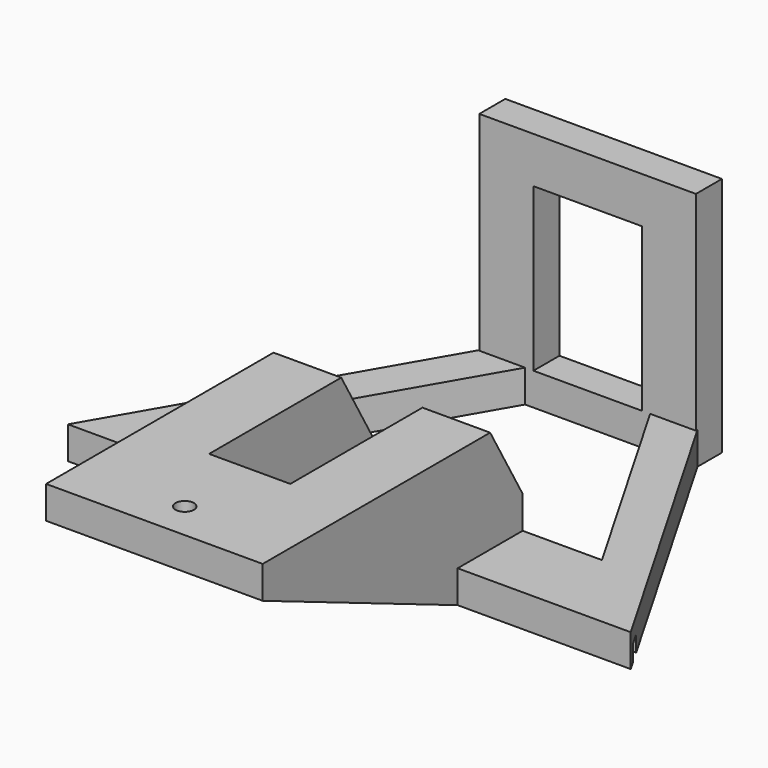
from build123d import *

# Parameters (mm, degrees)
BOX031_W                 = 46
BOX031_H                 = 15
BOX031_DEPTH             = 16
BOX029_W                 = 78
BOX029_H                 = 15
BOX029_DEPTH             = 6
BOX023_W                 = 220
BOX023_H                 = 2.5
BOX023_DEPTH             = 3
EXTRUDE011_DEPTH         = 10
BOX024_W                 = 220
BOX024_H                 = 113
BOX024_DEPTH             = 8
BOX026_W                 = 32
BOX026_H                 = 6
BOX026_DEPTH             = 6
PRISM004_DEPTH           = 6
PRISM004_PLACEMENT_ANGLE = 30
PRISM005_DEPTH           = 6
PRISM005_PLACEMENT_ANGLE = 30
EXTRUDE012_DEPTH         = 12.5
EXTRUDE009_DEPTH         = 12.5
EXTRUDE008_DEPTH         = 12.5
BOX009_W                 = 12.5
BOX009_H                 = 7.5
BOX009_DEPTH             = 22
BOX010_W                 = 12.5
BOX010_H                 = 7.5
BOX010_DEPTH             = 22
CYLINDER_R               = 1.7
CYLINDER_DEPTH           = 30
BOX007_W                 = 15
BOX007_H                 = 70
BOX007_DEPTH             = 6
BOX006_W                 = 40
BOX006_H                 = 51
BOX006_DEPTH             = 6
EXTRUDE010_DEPTH         = 12.5
BOX021_W                 = 12.5
BOX021_H                 = 7.5
BOX021_DEPTH             = 22
BOX027_W                 = 12.5
BOX027_H                 = 7.5
BOX027_DEPTH             = 22
CYLINDER002_R            = 1.7
CYLINDER002_DEPTH        = 30
BOX025_W                 = 15
BOX025_H                 = 70
BOX025_DEPTH             = 6
BOX022_W                 = 40
BOX022_H                 = 51
BOX022_DEPTH             = 6
BOX005_W                 = 20
BOX005_H                 = 6
BOX005_DEPTH             = 30
BOX004_W                 = 40
BOX004_H                 = 6
BOX004_DEPTH             = 44.5


with BuildPart() as cube030:
    # Box031 → Box031 (new body)
    with BuildSketch(Plane(origin=(-22, 15, 0), x_dir=(1, 0, 0), z_dir=(0, 0, 1))):
        with Locations((23, 7.5)):
            Rectangle(BOX031_W, BOX031_H)
    extrude(amount=BOX031_DEPTH)


with BuildPart() as cube028:
    # Box029 → Box029 (new body)
    with BuildSketch(Plane(origin=(-39, 0, 0), x_dir=(1, 0, 0), z_dir=(0, 0, 1))):
        with Locations((39, 7.5)):
            Rectangle(BOX029_W, BOX029_H)
    extrude(amount=BOX029_DEPTH)


with BuildPart() as cube022:
    # Box023 → Box023 (new body)
    with BuildSketch(Plane(origin=(-110, 2, 0), x_dir=(1, 0, 0), z_dir=(0, 0, 1))):
        with Locations((110, 1.25)):
            Rectangle(BOX023_W, BOX023_H)
    extrude(amount=BOX023_DEPTH)


with BuildPart() as extrude011:
    # Sketch009 → Extrude011 (new body)
    with BuildSketch(Plane.XY):
        Polygon((-95, 0), (95, 0), (85, 61), (-85, 61), align=None)
    extrude(amount=EXTRUDE011_DEPTH)


with BuildPart() as obj1:
    # Box024 → Box024 (new body)
    with BuildSketch(Plane(origin=(-110, -15, 0), x_dir=(1, 0, 0), z_dir=(0, 0, 1))):
        with Locations((110, 56.5)):
            Rectangle(BOX024_W, BOX024_H)
    extrude(amount=BOX024_DEPTH)

    # Cut004020: cut Extrude011
    add(extrude011.part, mode=Mode.SUBTRACT)


with BuildPart() as cube025:
    # Box026 → Box026 (new body)
    with BuildSketch(Plane(origin=(-16, 55, 0), x_dir=(1, 0, 0), z_dir=(0, 0, 1))):
        with Locations((16, 3)):
            Rectangle(BOX026_W, BOX026_H)
    extrude(amount=BOX026_DEPTH)


with BuildPart() as prism004:
    # Prism004 → Prism004 (new body)
    with BuildSketch(Plane.XY):
        Polygon((45, 0), (-22.5, 38.971143), (-22.5, -38.971143), align=None)
    extrude(amount=PRISM004_DEPTH)


with BuildPart() as prism004_1:
    # Prism004 placement: moved
    add(prism004.part.moved(Location((0, 23, 0))).rotate(Axis((0, 23, 0), (0, 0, -1)), PRISM004_PLACEMENT_ANGLE))


with BuildPart() as obj2:
    # Prism005 → Prism005 (new body)
    with BuildSketch(Plane.XY):
        Polygon((60, 0), (-30, 51.961524), (-30, -51.961524), align=None)
    extrude(amount=PRISM005_DEPTH)


with BuildPart() as obj2_1:
    # Prism005 placement: moved
    add(obj2.part.moved(Location((0, 23, 0))).rotate(Axis((0, 23, 0), (0, 0, -1)), PRISM005_PLACEMENT_ANGLE))

    # Cut004019: cut Prism004
    add(prism004_1.part, mode=Mode.SUBTRACT)


with BuildPart() as obj2_2:
    # Cut004019 placement: moved
    add(obj2_1.part.moved(Location((0, 7, 0))))

    # Fusion004005: union Cube025
    add(cube025.part)

    # Cut004015: cut obj1
    add(obj1.part, mode=Mode.SUBTRACT)

    # Cut004016: cut Cube022
    add(cube022.part, mode=Mode.SUBTRACT)


with BuildPart() as extrude012:
    # Sketch010 (on Face21 of Fusion004006) → Extrude012 (new body)
    with BuildSketch(Plane(origin=(-20, 0, 0), x_dir=(0, -1, 0), z_dir=(-1, 0, 0))):
        Polygon((-7.5, 0), (-7.5, 25), (-21.933757, 0), align=None)
    extrude(amount=-EXTRUDE012_DEPTH)


with BuildPart() as extrude012_1:
    # Extrude012 placement: moved
    add(extrude012.part.moved(Location((27.5, 0, 0))))


with BuildPart() as extrude009:
    # Sketch007 (on Face17 of Fusion004002) → Extrude009 (new body)
    with BuildSketch(Plane(origin=(-20, 0, 0), x_dir=(0, -1, 0), z_dir=(-1, 0, 0))):
        Polygon((0, 0), (0, 19), (45, 19), align=None)
    extrude(amount=EXTRUDE009_DEPTH)


with BuildPart() as extrude009_1:
    # Extrude009 placement: moved
    add(extrude009.part.moved(Location((40, 0, 0))))


with BuildPart() as extrude008:
    # Sketch007 (on Face17 of Fusion004002) → Extrude008 (new body)
    with BuildSketch(Plane(origin=(-20, 0, 0), x_dir=(0, -1, 0), z_dir=(-1, 0, 0))):
        Polygon((0, 0), (0, 19), (45, 19), align=None)
    extrude(amount=-EXTRUDE008_DEPTH)


with BuildPart() as cube008:
    # Box009 → Box009 (new body)
    with BuildSketch(Plane(origin=(7.5, 0, 3), x_dir=(1, 0, 0), z_dir=(0, 0, 1))):
        with Locations((6.25, 3.75)):
            Rectangle(BOX009_W, BOX009_H)
    extrude(amount=BOX009_DEPTH)


with BuildPart() as cube009:
    # Box010 → Box010 (new body)
    with BuildSketch(Plane(origin=(-20, 0, 3), x_dir=(1, 0, 0), z_dir=(0, 0, 1))):
        with Locations((6.25, 3.75)):
            Rectangle(BOX010_W, BOX010_H)
    extrude(amount=BOX010_DEPTH)


with BuildPart() as cylinder:
    # Cylinder → Cylinder (new body)
    with BuildSketch(Plane(origin=(0, 7, 0), x_dir=(1, 0, 0), z_dir=(0, 0, 1))):
        Circle(CYLINDER_R)
    extrude(amount=CYLINDER_DEPTH)


with BuildPart() as cube007:
    # Box007 → Box007 (new body)
    with BuildSketch(Plane(origin=(12.5, 22, 20), x_dir=(1, 0, 0), z_dir=(0, 0, 1))):
        with Locations((7.5, 35)):
            Rectangle(BOX007_W, BOX007_H)
    extrude(amount=BOX007_DEPTH)


with BuildPart() as fusion004002:
    # Box006 → Box006 (new body)
    with BuildSketch(Plane.XY.offset(20)):
        with Locations((20, 25.5)):
            Rectangle(BOX006_W, BOX006_H)
    extrude(amount=BOX006_DEPTH)

    # Cut004005: cut Cube007
    add(cube007.part, mode=Mode.SUBTRACT)


with BuildPart() as fusion004002_1:
    # Cut004005 placement: moved
    add(fusion004002.part.moved(Location((-20, 0, -1))))

    # Cut004006: cut Cylinder
    add(cylinder.part, mode=Mode.SUBTRACT)


with BuildPart() as fusion004002_2:
    # Cut004006 placement: moved
    add(fusion004002_1.part.moved(Location((0, -45, 0))))

    # Fusion004002: union Cube008, Cube009
    add(cube008.part)
    add(cube009.part)


with BuildPart() as fusion004007:
    # Sketch008 (on Face21 of Fusion004002) → Extrude010 (new body)
    with BuildSketch(Plane(origin=(-20, 0, 0), x_dir=(0, -1, 0), z_dir=(-1, 0, 0))):
        Polygon((-7.5, 0), (-7.5, 25), (-21.933757, 0), align=None)
    extrude(amount=-EXTRUDE010_DEPTH)

    # Fusion004007: union Extrude012, Extrude009, Extrude008, Fusion004002
    add(extrude012_1.part)
    add(extrude009_1.part)
    add(extrude008.part)
    add(fusion004002_2.part)


with BuildPart() as cube020:
    # Box021 → Box021 (new body)
    with BuildSketch(Plane(origin=(7.5, 0, 3), x_dir=(1, 0, 0), z_dir=(0, 0, 1))):
        with Locations((6.25, 3.75)):
            Rectangle(BOX021_W, BOX021_H)
    extrude(amount=BOX021_DEPTH)


with BuildPart() as cube026:
    # Box027 → Box027 (new body)
    with BuildSketch(Plane(origin=(-20, 0, 3), x_dir=(1, 0, 0), z_dir=(0, 0, 1))):
        with Locations((6.25, 3.75)):
            Rectangle(BOX027_W, BOX027_H)
    extrude(amount=BOX027_DEPTH)


with BuildPart() as cylinder002:
    # Cylinder002 → Cylinder002 (new body)
    with BuildSketch(Plane(origin=(0, 7, 0), x_dir=(1, 0, 0), z_dir=(0, 0, 1))):
        Circle(CYLINDER002_R)
    extrude(amount=CYLINDER002_DEPTH)


with BuildPart() as cube024:
    # Box025 → Box025 (new body)
    with BuildSketch(Plane(origin=(12.5, 22, 20), x_dir=(1, 0, 0), z_dir=(0, 0, 1))):
        with Locations((7.5, 35)):
            Rectangle(BOX025_W, BOX025_H)
    extrude(amount=BOX025_DEPTH)


with BuildPart() as parte_frontal:
    # Box022 → Box022 (new body)
    with BuildSketch(Plane.XY.offset(20)):
        with Locations((20, 25.5)):
            Rectangle(BOX022_W, BOX022_H)
    extrude(amount=BOX022_DEPTH)

    # Cut004017: cut Cube024
    add(cube024.part, mode=Mode.SUBTRACT)


with BuildPart() as parte_frontal_1:
    # Cut004017 placement: moved
    add(parte_frontal.part.moved(Location((-20, 0, -1))))

    # Cut004018: cut Cylinder002
    add(cylinder002.part, mode=Mode.SUBTRACT)


with BuildPart() as parte_frontal_2:
    # Cut004018 placement: moved
    add(parte_frontal_1.part.moved(Location((0, -45, 0))))

    # Fusion004006: union Cube020, Cube026
    add(cube020.part)
    add(cube026.part)

    # Fusion004008: union Fusion004007
    add(fusion004007.part)


with BuildPart() as cube005:
    # Box005 → Box005 (new body)
    with BuildSketch(Plane(origin=(-10, 55, 6), x_dir=(1, 0, 0), z_dir=(0, 0, 1))):
        with Locations((10, 3)):
            Rectangle(BOX005_W, BOX005_H)
    extrude(amount=BOX005_DEPTH)


with BuildPart() as cut004022:
    # Box004 → Box004 (new body)
    with BuildSketch(Plane(origin=(-20, 55, 0), x_dir=(1, 0, 0), z_dir=(0, 0, 1))):
        with Locations((20, 3)):
            Rectangle(BOX004_W, BOX004_H)
    extrude(amount=BOX004_DEPTH)

    # Cut004004: cut Cube005
    add(cube005.part, mode=Mode.SUBTRACT)

    # Fusion004009: union obj2, parte_frontal
    add(obj2_2.part)
    add(parte_frontal_2.part)

    # Fusion004009002: union Cube028
    add(cube028.part)

    # Cut004022: cut Cube030
    add(cube030.part, mode=Mode.SUBTRACT)


solid = cut004022.part
